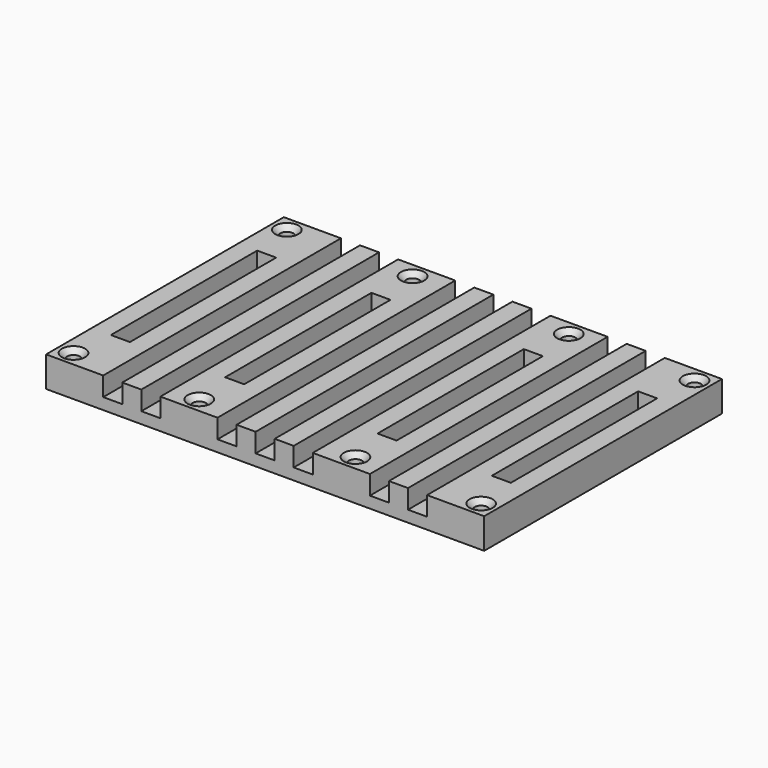
from build123d import *

# Parameters (mm, degrees)
SKETCH022_W         = 115
SKETCH022_H         = 78
PAD010_DEPTH        = 8
HOLE002_D           = 3.4
HOLE002_DEPTH       = 8
HOLE002_CSINK_D     = 6.1
HOLE002_CSINK_ANGLE = 90
HOLE002_TIPS_R      = 1.7
SKETCH027_W         = 29
SKETCH027_H         = 29
POCKET009_DEPTH     = 1
SKETCH032_W         = 5
SKETCH032_H         = 48
SKETCH032_H_2       = 78
POCKET012_DEPTH     = 5


with BuildPart() as part:
    # Sketch022 (on Face1 of CopyPad011) → Pad010 (new body)
    with BuildSketch(Plane.XY.offset(24)):
        with Locations((52.5, 32)):
            Rectangle(SKETCH022_W, SKETCH022_H)
    extrude(amount=PAD010_DEPTH)

    # Hole002
    with Locations(Plane.XY.offset(32)):
        with Locations((-1, 67), (106, 67), (106, -3), (-1, -3), (32, 67), (73, -3), (32, -3), (73, 67)):
            CounterSinkHole(HOLE002_D / 2, HOLE002_CSINK_D / 2, depth=HOLE002_DEPTH, counter_sink_angle=HOLE002_CSINK_ANGLE)

    # Hole002 tips → Hole002 tip 1 section 0
    with BuildSketch(Plane.XY.offset(24), mode=Mode.PRIVATE) as hole002_tip_1_s0:
        with Locations((-1, 67)):
            Circle(HOLE002_TIPS_R)
    loft([hole002_tip_1_s0.sketch, Vertex(-1, 67, 22.978537)], mode=Mode.SUBTRACT)

    # Hole002 tips → Hole002 tip 2 section 0
    with BuildSketch(Plane.XY.offset(24), mode=Mode.PRIVATE) as hole002_tip_2_s0:
        with Locations((106, 67)):
            Circle(HOLE002_TIPS_R)
    loft([hole002_tip_2_s0.sketch, Vertex(106, 67, 22.978537)], mode=Mode.SUBTRACT)

    # Hole002 tips → Hole002 tip 3 section 0
    with BuildSketch(Plane.XY.offset(24), mode=Mode.PRIVATE) as hole002_tip_3_s0:
        with Locations((106, -3)):
            Circle(HOLE002_TIPS_R)
    loft([hole002_tip_3_s0.sketch, Vertex(106, -3, 22.978537)], mode=Mode.SUBTRACT)

    # Hole002 tips → Hole002 tip 4 section 0
    with BuildSketch(Plane.XY.offset(24), mode=Mode.PRIVATE) as hole002_tip_4_s0:
        with Locations((-1, -3)):
            Circle(HOLE002_TIPS_R)
    loft([hole002_tip_4_s0.sketch, Vertex(-1, -3, 22.978537)], mode=Mode.SUBTRACT)

    # Hole002 tips → Hole002 tip 5 section 0
    with BuildSketch(Plane.XY.offset(24), mode=Mode.PRIVATE) as hole002_tip_5_s0:
        with Locations((32, 67)):
            Circle(HOLE002_TIPS_R)
    loft([hole002_tip_5_s0.sketch, Vertex(32, 67, 22.978537)], mode=Mode.SUBTRACT)

    # Hole002 tips → Hole002 tip 6 section 0
    with BuildSketch(Plane.XY.offset(24), mode=Mode.PRIVATE) as hole002_tip_6_s0:
        with Locations((73, -3)):
            Circle(HOLE002_TIPS_R)
    loft([hole002_tip_6_s0.sketch, Vertex(73, -3, 22.978537)], mode=Mode.SUBTRACT)

    # Hole002 tips → Hole002 tip 7 section 0
    with BuildSketch(Plane.XY.offset(24), mode=Mode.PRIVATE) as hole002_tip_7_s0:
        with Locations((32, -3)):
            Circle(HOLE002_TIPS_R)
    loft([hole002_tip_7_s0.sketch, Vertex(32, -3, 22.978537)], mode=Mode.SUBTRACT)

    # Hole002 tips → Hole002 tip 8 section 0
    with BuildSketch(Plane.XY.offset(24), mode=Mode.PRIVATE) as hole002_tip_8_s0:
        with Locations((73, 67)):
            Circle(HOLE002_TIPS_R)
    loft([hole002_tip_8_s0.sketch, Vertex(73, 67, 22.978537)], mode=Mode.SUBTRACT)

    # Sketch027 → Pocket009 (cut)
    with BuildSketch(Plane(origin=(0, 0, 24), x_dir=(1, 0, 0), z_dir=(0, 0, -1))):
        with Locations((27.5, -16.5)):
            Rectangle(SKETCH027_W, SKETCH027_H)
    extrude(amount=-POCKET009_DEPTH, mode=Mode.SUBTRACT)

    # Sketch032 (on Face5 of Pocket009) → Pocket012 (cut)
    with BuildSketch(Plane.XY.offset(32)):
        with Locations((2.5, 32)):
            Rectangle(SKETCH032_W, SKETCH032_H)
        with Locations((12.5, 32)):
            Rectangle(SKETCH032_W, SKETCH032_H_2)
        with Locations((22.5, 32)):
            Rectangle(SKETCH032_W, SKETCH032_H_2)
        with Locations((32.5, 32)):
            Rectangle(SKETCH032_W, SKETCH032_H)
        with Locations((42.5, 32)):
            Rectangle(SKETCH032_W, SKETCH032_H_2)
        with Locations((52.5, 32)):
            Rectangle(SKETCH032_W, SKETCH032_H_2)
        with Locations((62.5, 32)):
            Rectangle(SKETCH032_W, SKETCH032_H_2)
        with Locations((72.5, 32)):
            Rectangle(SKETCH032_W, SKETCH032_H)
        with Locations((82.5, 32)):
            Rectangle(SKETCH032_W, SKETCH032_H_2)
        with Locations((92.5, 32)):
            Rectangle(SKETCH032_W, SKETCH032_H_2)
        with Locations((102.5, 32)):
            Rectangle(SKETCH032_W, SKETCH032_H)
    extrude(amount=-POCKET012_DEPTH, mode=Mode.SUBTRACT)


with BuildPart() as part_1:
    # Body002 placement: moved
    add(part.part.moved(Location((0, 0, -2.5))))


solid = part_1.part
